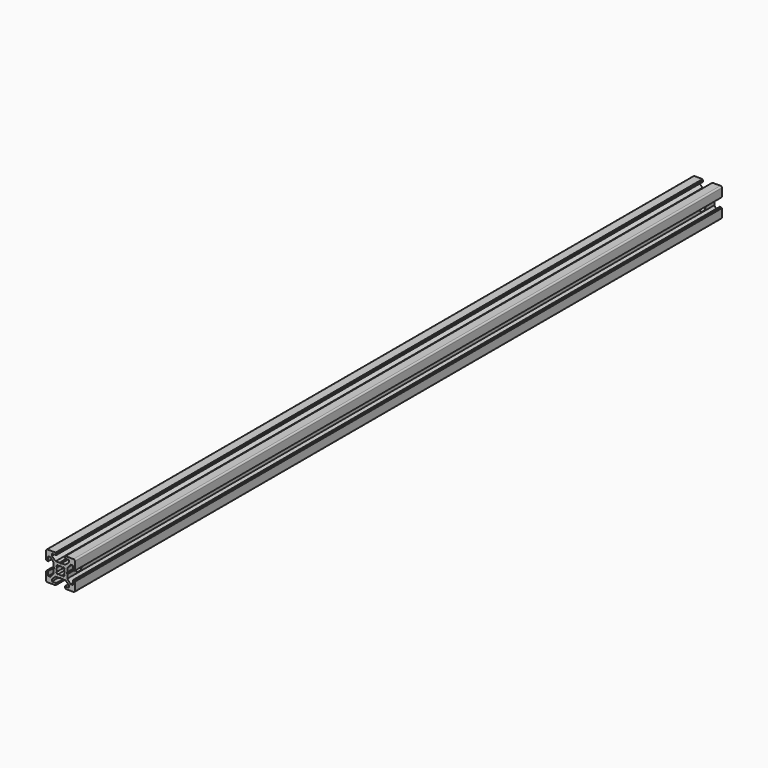
from build123d import *

# Parameters (mm, degrees)
PAD_DEPTH          = 560
POCKET_DEPTH       = 560
POLARPATTERN_COUNT = 4
POCKET001_DEPTH    = 560
SKETCH003_R        = 3
POCKET002_DEPTH    = 20
SKETCH004_R        = 5
POCKET003_DEPTH    = 3
POCKET004_DEPTH    = 3


with BuildPart() as pocket002:
    # Sketch → Pad (new body)
    with BuildSketch(Plane.XZ):
        with BuildLine():
            Line((-9, 10), (9, 10))
            ThreePointArc((10, 9), (9.707107, 9.707107), (9, 10))
            Line((10, 9), (10, -9))
            ThreePointArc((9, -10), (9.707107, -9.707107), (10, -9))
            Line((9, -10), (-9, -10))
            ThreePointArc((-10, -9), (-9.707107, -9.707107), (-9, -10))
            Line((-10, -9), (-10, 9))
            ThreePointArc((-9, 10), (-9.707107, 9.707107), (-10, 9))
        make_face()
    extrude(amount=PAD_DEPTH)

    # Sketch001 (on Face10 of Pad) → Pocket (cut)
    with BuildSketch(Plane.XZ.offset(560)):
        Polygon((-3.4, 10), (-3.4, 9.6), (-3, 9.6), (-3, 8.5), (-6, 8.5), (-6, 7), (-3.35, 4.7), (-0.65, 4.7), (0, 4.3), (0.65, 4.7), (3.35, 4.7), (6, 7), (6, 8.5), (3, 8.5), (3, 9.6), (3.4, 9.6), (3.4, 10), align=None)
    pocket = extrude(amount=-POCKET_DEPTH, mode=Mode.SUBTRACT)

    # PolarPattern: Pocket ×4 about axis
    polarpattern_axis = Axis((0, -560, 0), (0, -1, 0))
    for i in range(1, POLARPATTERN_COUNT):
        add(pocket.rotate(polarpattern_axis, i * 360 / POLARPATTERN_COUNT), mode=Mode.SUBTRACT)

    # Sketch002 (on Face4 of PolarPattern) → Pocket001 (cut)
    with BuildSketch(Plane.XZ.offset(560)):
        with BuildLine():
            ThreePointArc((1.340499, 2.401159), (0, 2.75), (-1.340499, 2.401159))
            Line((-1.944544, 3.005204), (-1.340499, 2.401159))
            Line((-3.005204, 1.944544), (-1.944544, 3.005204))
            Line((-2.401159, 1.340499), (-3.005204, 1.944544))
            ThreePointArc((-2.401159, 1.340499), (-2.75, 0), (-2.401159, -1.340499))
            Line((-3.005204, -1.944544), (-2.401159, -1.340499))
            Line((-1.944544, -3.005204), (-3.005204, -1.944544))
            Line((-1.340499, -2.401159), (-1.944544, -3.005204))
            ThreePointArc((-1.340499, -2.401159), (0, -2.75), (1.340499, -2.401159))
            Line((1.944544, -3.005204), (1.340499, -2.401159))
            Line((3.005204, -1.944544), (1.944544, -3.005204))
            Line((2.401159, -1.340499), (3.005204, -1.944544))
            ThreePointArc((2.401159, -1.340499), (2.75, 0), (2.401159, 1.340499))
            Line((2.401159, 1.340499), (3.005204, 1.944544))
            Line((3.005204, 1.944544), (1.944544, 3.005204))
            Line((1.944544, 3.005204), (1.340499, 2.401159))
        make_face()
    extrude(amount=-POCKET001_DEPTH, mode=Mode.SUBTRACT)

    # Sketch003 (on Face44 of Pocket001) → Pocket002 (cut)
    with BuildSketch(Plane(origin=(10, 0, 0), x_dir=(0, 0, 1), z_dir=(1, 0, 0))):
        with Locations((0, 10)):
            Circle(SKETCH003_R)
        with Locations((0, 550)):
            Circle(SKETCH003_R)
    extrude(amount=-POCKET002_DEPTH, mode=Mode.SUBTRACT)


with BuildPart() as pocket003:
    # Pocket003 base: copy of Pocket002
    add(pocket002.part)

    # Sketch004 (on Face37 of Pocket002) → Pocket003 (cut)
    with BuildSketch(Plane(origin=(-10, 0, 0), x_dir=(0, 0, -1), z_dir=(-1, 0, 0))):
        with Locations((0, 10)):
            Circle(SKETCH004_R)
        with Locations((0, 550)):
            Circle(SKETCH004_R)
    extrude(amount=-POCKET003_DEPTH, mode=Mode.SUBTRACT)


with BuildPart() as pocket004:
    # Pocket004 base: copy of Pocket002
    add(pocket002.part)

    # Sketch004 (on Face37 of Pocket002) → Pocket004 (cut)
    with BuildSketch(Plane(origin=(-10, 0, 0), x_dir=(0, 0, -1), z_dir=(-1, 0, 0))):
        with Locations((0, 10)):
            Circle(SKETCH004_R)
        with Locations((0, 550)):
            Circle(SKETCH004_R)
    extrude(amount=-POCKET004_DEPTH, mode=Mode.SUBTRACT)


solid = Compound([pocket003.part, pocket004.part])
